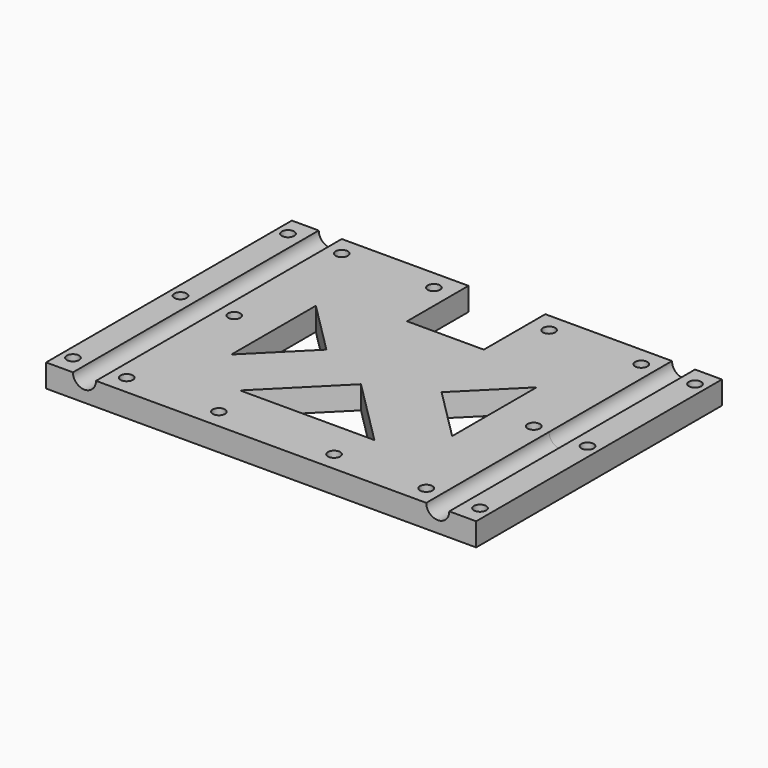
from build123d import *

# Parameters (mm, degrees)
SKETCH_R          = 1.6
PAD_DEPTH         = 6
SKETCH001_R       = 3
POCKET_DEPTH      = 40.001
POCKET_DEPTH_BACK = 40.001


with BuildPart() as toolbody:
    # Sketch → Pad (new body)
    with BuildSketch(Plane.XY):
        Polygon((46, -40), (0, -40), (0, -25), (17.5, -25), (0, -7.5), (0, 7.5), (0, 20), (10, 20), (10, 40), (46, 40), (56, 40), (56, -40), align=None)
        with Locations((53, 0)):
            Circle(SKETCH_R, mode=Mode.SUBTRACT)
        with Locations((53, 35)):
            Circle(SKETCH_R, mode=Mode.SUBTRACT)
        with Locations((53, -35)):
            Circle(SKETCH_R, mode=Mode.SUBTRACT)
        with Locations((39, 35)):
            Circle(SKETCH_R, mode=Mode.SUBTRACT)
        with Locations((39, 0)):
            Circle(SKETCH_R, mode=Mode.SUBTRACT)
        with Locations((39, -35)):
            Circle(SKETCH_R, mode=Mode.SUBTRACT)
        with Locations((15, 35)):
            Circle(SKETCH_R, mode=Mode.SUBTRACT)
        with Locations((15, -35)):
            Circle(SKETCH_R, mode=Mode.SUBTRACT)
        Polygon((15, 0), (28.75, 13.75), (28.75, -13.75), align=None, mode=Mode.SUBTRACT)
    extrude(amount=-PAD_DEPTH)

    # Sketch001 → Pocket (cut, two sides)
    with BuildSketch(Plane.XZ) as pocket_sk:
        with Locations((46, 0)):
            Circle(SKETCH001_R)
    extrude(amount=-POCKET_DEPTH, mode=Mode.SUBTRACT)
    extrude(pocket_sk.sketch, amount=POCKET_DEPTH_BACK, mode=Mode.SUBTRACT)


with BuildPart() as toolfusion:
    # Part__Mirroring: instance of ToolBody
    add(toolbody.part.mirror(Plane(origin=(0, 0, 0), x_dir=(0, -1, 0), z_dir=(1, 0, 0))))

    # Fusion: union ToolBody
    add(toolbody.part)


solid = toolfusion.part
